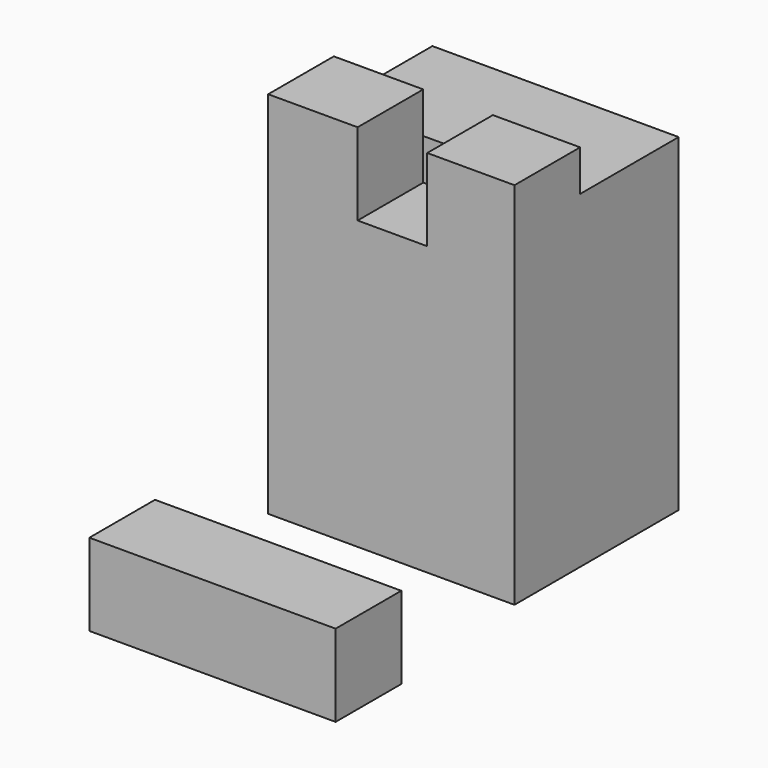
from build123d import *

# Parameters (mm, degrees)
F0_W     = 76.2
F0_H     = 63.5
F2_DEPTH = 114.3
F3_W     = 21.5376298875
F3_H     = 25.3758388571
F4_DEPTH = 25.4
F6_DEPTH = 12.7
F1_W     = 76.2
F1_H     = 25.4
F7_DEPTH = 25.4


with BuildPart() as f2:
    # F0 (on Top) → F2 (new body)
    with BuildSketch(Plane.XY):
        with Locations((-0.7524453104, 36.7663012929)):
            Rectangle(F0_W, F0_H)
    extrude(amount=F2_DEPTH)

    # F3 (on face) → F4 (cut)
    with BuildSketch(Plane.XY.offset(114.3)):
        with Locations((-0.4131086171, 17.7042207215)):
            Rectangle(F3_W, F3_H)
    extrude(amount=-F4_DEPTH, mode=Mode.SUBTRACT)

    # F5 (on face) → F6 (cut)
    with BuildSketch(Plane.XY.offset(114.3)):
        Polygon((-38.8524453104, 30.3921401501), (-11.1819235608, 30.3921401501), (10.3557063267, 30.3921401501), (37.3475546896, 30.3921401501), (37.3475546896, 68.5163012929), (-38.8524453104, 68.5163012929), align=None)
    extrude(amount=-F6_DEPTH, mode=Mode.SUBTRACT)


with BuildPart() as f7:
    # F1 (on Top) → F7 (new body)
    with BuildSketch(Plane.XY):
        with Locations((3.7747621536, -57.1176622391)):
            Rectangle(F1_W, F1_H)
    extrude(amount=F7_DEPTH)


solid = Compound([f2.part, f7.part])
